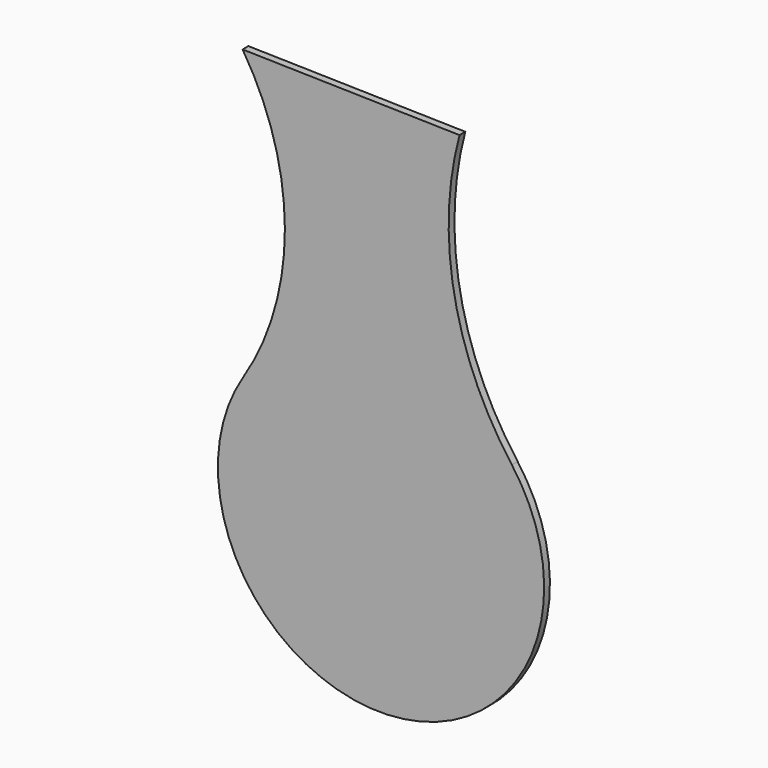
from build123d import *

# Parameters (mm, degrees)
F1_DEPTH = 101.6


with BuildPart() as f1:
    # F0 (on Front) → F1 (new body)
    with BuildSketch(Plane.XZ):
        with BuildLine():
            ThreePointArc((0, 7591.051896), (594.016712, 5567.159744), (8.805611, 3540.703906))
            ThreePointArc((8.805611, 3540.703906), (2031.137657, 25.176014), (3782.859444, 3683.076236))
            ThreePointArc((3782.859444, 3683.076236), (2975.080561, 5518.58543), (3047.233052, 7522.679924))
            Line((3047.233052, 7522.679924), (0, 7591.051896))
        make_face()
    extrude(amount=F1_DEPTH)


solid = f1.part
